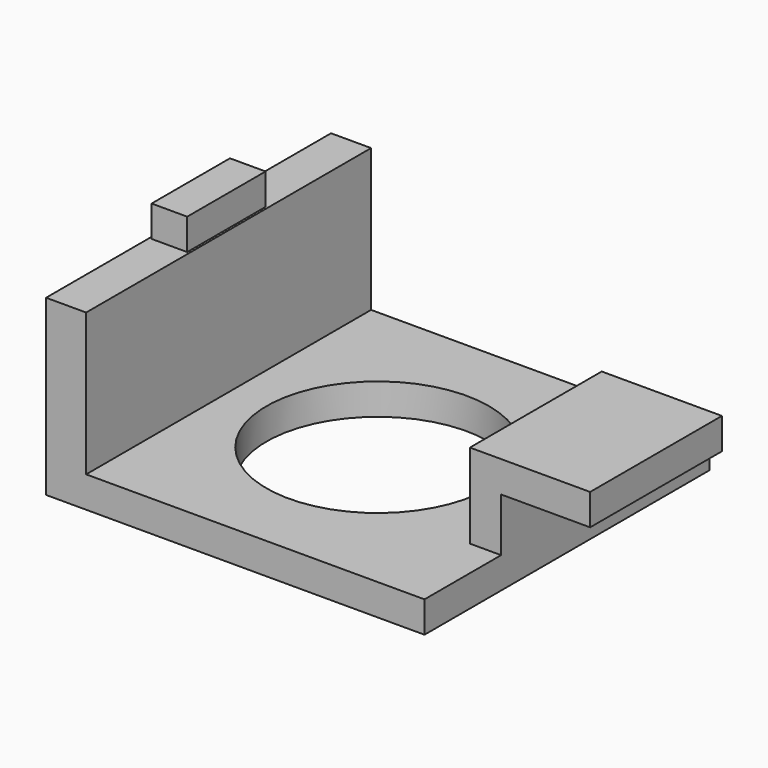
from build123d import *

# Parameters (mm, degrees)
SKETCH157_R  = 5
PAD031_DEPTH = 1.4
SKETCH158_W  = 1.8
SKETCH158_H  = 16
PAD032_DEPTH = 6.4
SKETCH159_W  = 1.6
SKETCH159_H  = 4.4
PAD033_DEPTH = 1.4
SKETCH160_W  = 1.4
SKETCH160_H  = 7.4
PAD034_DEPTH = 2.4
PAD035_DEPTH = 1.4


with BuildPart() as part:
    # Sketch157 → Pad031 (new body)
    with BuildSketch(Plane.XY):
        Polygon((1.8, 8), (17, 8), (17, -8), (1.8, -8), (0, -8), (0, 8), align=None)
        with Locations((8.5, 0)):
            Circle(SKETCH157_R, mode=Mode.SUBTRACT)
    extrude(amount=PAD031_DEPTH)

    # Sketch158 (on Face5 of Pad031) → Pad032 (join)
    with BuildSketch(Plane.XY.offset(1.4)):
        with Locations((0.9, 0)):
            Rectangle(SKETCH158_W, SKETCH158_H)
    extrude(amount=PAD032_DEPTH)

    # Sketch159 (on Face6 of Pad032) → Pad033 (join)
    with BuildSketch(Plane.XY.offset(7.8)):
        with Locations((0.9, 0)):
            Rectangle(SKETCH159_W, SKETCH159_H)
    extrude(amount=PAD033_DEPTH)

    # Sketch160 (on Face5 of Pad033) → Pad034 (join)
    with BuildSketch(Plane.XY.offset(1.4)):
        with Locations((16.3, 0)):
            Rectangle(SKETCH160_W, SKETCH160_H)
    extrude(amount=PAD034_DEPTH)

    # Sketch161 (on Face12 of Pad034) → Pad035 (join)
    with BuildSketch(Plane.XY.offset(3.8)):
        Polygon((17, 3.7), (21, 3.7), (21, -3.7), (17, -3.7), (15.6, -3.7), (15.6, 3.7), align=None)
    extrude(amount=PAD035_DEPTH)


solid = part.part
